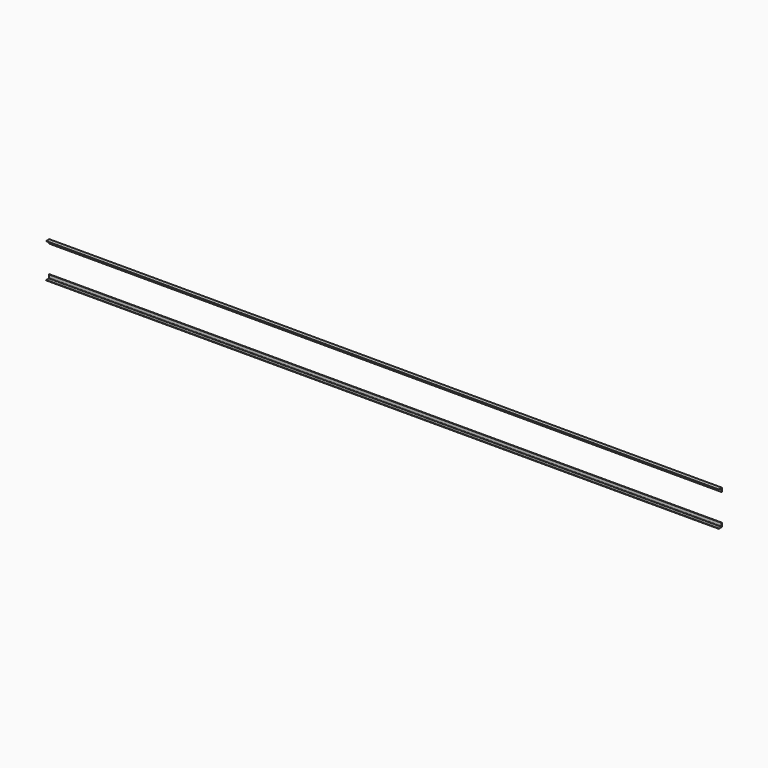
from build123d import *

# Parameters (mm, degrees)
EXTRUDE017_DEPTH = 15500
EXTRUDE018_DEPTH = 15500


with BuildPart() as extrude017:
    # AngleSteel004 → Extrude017 (new body)
    with BuildSketch(Plane(origin=(0, 53.415282, 39.015282), x_dir=(0, 1, 0), z_dir=(-1, 0, 0))):
        with BuildLine():
            Line((-24.615282, 24.615282), (-24.615282, -65.384718))
            Line((-24.615282, -65.384718), (-22.615282, -65.384718))
            ThreePointArc((-22.615282, -65.384718), (-19.079748, -63.920252), (-17.615282, -60.384718))
            Line((-17.615282, -60.384718), (-17.615282, 7.615282))
            ThreePointArc((-17.615282, 7.615282), (-14.68635, 14.68635), (-7.615282, 17.615282))
            Line((-7.615282, 17.615282), (60.384718, 17.615282))
            ThreePointArc((60.384718, 17.615282), (63.920252, 19.079748), (65.384718, 22.615282))
            Line((65.384718, 22.615282), (65.384718, 24.615282))
            Line((65.384718, 24.615282), (-24.615282, 24.615282))
        make_face()
    extrude(amount=-EXTRUDE017_DEPTH)


with BuildPart() as fusion001:
    # Mirror → Extrude018 (new body)
    with BuildSketch(Plane(origin=(0, 53.415282, 789.777402), x_dir=(0, -1, 0), z_dir=(1, 0, 0))):
        with BuildLine():
            Line((24.615282, -24.615282), (24.615282, 65.384718))
            Line((24.615282, 65.384718), (22.615282, 65.384718))
            ThreePointArc((22.615282, 65.384718), (19.079748, 63.920252), (17.615282, 60.384718))
            Line((17.615282, 60.384718), (17.615282, -7.615282))
            ThreePointArc((17.615282, -7.615282), (14.68635, -14.68635), (7.615282, -17.615282))
            Line((7.615282, -17.615282), (-60.384718, -17.615282))
            ThreePointArc((-60.384718, -17.615282), (-63.920252, -19.079748), (-65.384718, -22.615282))
            Line((-65.384718, -22.615282), (-65.384718, -24.615282))
            Line((-65.384718, -24.615282), (24.615282, -24.615282))
        make_face()
    extrude(amount=EXTRUDE018_DEPTH)

    # Fusion001: union Extrude017
    add(extrude017.part)


with BuildPart() as fusion_mirrored:
    # Mirror001: instance of Fusion001
    add(fusion001.part.mirror(Plane(origin=(0, 28.796342, 514.396342), x_dir=(-1, 0, 0), z_dir=(0, -1, 0))))


with BuildPart() as fusion_mirrored_1:
    # Mirror001 placement: moved
    add(fusion_mirrored.part.moved(Location((0, -6, 0))))


solid = fusion_mirrored_1.part
